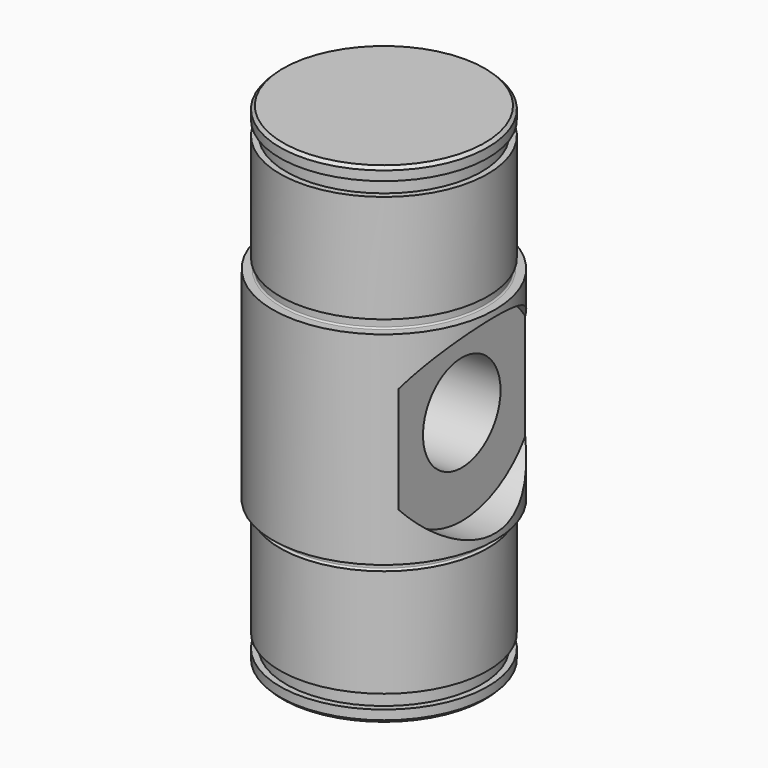
from build123d import *

# Parameters (mm, degrees)
F0_W          = 8.7122
F0_H          = 8.509
F0_W_2        = 0.6096
F0_H_2        = 12.0396
F2_R          = 4.064
F3_DEPTH      = 9.3228
F3_DEPTH_BACK = 9.3228
F4_W          = 2.794
F4_H          = 8.001
F6_W          = 0.2032
F6_H          = 0.7874
F6_W_2        = 6.1468
F8_W          = 0.508
F8_H          = 1.1684
F10_R         = 0.127
F11_SIZE      = 0.254


with BuildPart() as f1:
    # F0 (on Right) → F1 (revolve)
    with BuildSketch(Plane.YZ):
        with Locations((4.3561, 4.2545)):
            Rectangle(F0_W, F0_H)
        with Locations((4.3561, -4.2545)):
            Rectangle(F0_W, F0_H)
        with Locations((9.017, 4.2545)):
            Rectangle(F0_W_2, F0_H)
        with Locations((9.017, -4.2545)):
            Rectangle(F0_W_2, F0_H)
        with Locations((4.3561, -14.5288)):
            Rectangle(F0_W, F0_H_2)
        with Locations((4.3561, 14.5288)):
            Rectangle(F0_W, F0_H_2)
    revolve(axis=Axis((0, 0, 10.2743), (0, 0, 1)))

    # F2 (on Right) → F3 (cut, two sides)
    with BuildSketch(Plane.YZ) as f3_sk:
        Circle(F2_R)
    extrude(amount=-F3_DEPTH, mode=Mode.SUBTRACT)
    extrude(f3_sk.sketch, amount=F3_DEPTH_BACK, mode=Mode.SUBTRACT)

    # F4 (on Front) → F5 (revolve, cut)
    with BuildSketch(Plane.XZ):
        with Locations((7.9248, -4.0005)):
            Rectangle(F4_W, F4_H)
    revolve(axis=Axis((12.8778, 0, 0), (1, 0, 0)), mode=Mode.SUBTRACT)

    # F6 (on Right) → F7 (revolve, cut)
    with BuildSketch(Plane.YZ):
        Polygon((14.859, -8.509), (9.3218, -8.509), (8.7122, -8.509), (8.7122, -9.2964), (14.859, -9.2964), align=None)
        with Locations((8.6106, -8.9027)):
            Rectangle(F6_W, F6_H)
        with Locations((8.6106, 8.9027)):
            Rectangle(F6_W, F6_H)
        with Locations((11.7856, 8.9027)):
            Rectangle(F6_W_2, F6_H)
    revolve(axis=Axis((0, 0, -10.2471997961), (0, 0, -1)), mode=Mode.SUBTRACT)

    # F8 (on Right) → F9 (revolve, cut)
    with BuildSketch(Plane.YZ):
        with Locations((8.4582, -18.923)):
            Rectangle(F8_W, F8_H)
        with Locations((8.4582, 18.923)):
            Rectangle(F8_W, F8_H)
    revolve(axis=Axis((0, 0, -10.2743), (0, 0, -1)), mode=Mode.SUBTRACT)

    # F10
    f10_edges = [f1.edges().sort_by_distance(p)[0] for p in [
        (0, -8.509, -8.509),
        (0, -8.509, -9.2964),
        (0, -8.509, 8.509),
        (0, -8.509, 9.2964),
    ]]
    fillet(f10_edges, radius=F10_R)

    # F11
    f11_edges = [f1.edges().sort_by_distance(p)[0] for p in [
        (0, -8.7122, 20.5486),
        (0, -8.7122, -20.5486),
    ]]
    chamfer(f11_edges, length=F11_SIZE)


solid = f1.part
